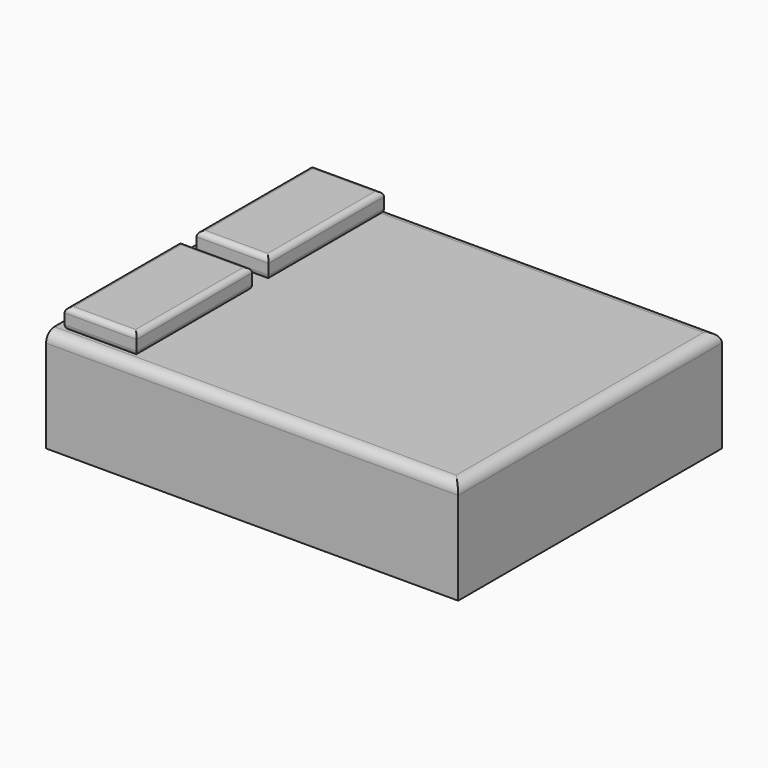
from build123d import *

# Parameters (mm, degrees)
F0_W     = 2000
F0_H     = 1600
F1_DEPTH = 500
F2_W     = 350
F2_H     = 700
F3_DEPTH = 100
F4_R     = 25
F5_R     = 50


with BuildPart() as f1:
    # F0 (on Top) → F1 (new body)
    with BuildSketch(Plane.XY):
        with Locations((1000, 800)):
            Rectangle(F0_W, F0_H)
    extrude(amount=F1_DEPTH)

    # F5
    f5_edges = [f1.edges().sort_by_distance(p)[0] for p in [
        (1000, 0, 500),
        (2000, 800, 500),
        (1000, 1600, 500),
    ]]
    fillet(f5_edges, radius=F5_R)


with BuildPart() as f3:
    # F2 (on face) → F3 (new body)
    with BuildSketch(Plane.XY.offset(500)):
        with Locations((225, 400)):
            Rectangle(F2_W, F2_H)
        with Locations((225, 1200)):
            Rectangle(F2_W, F2_H)
    extrude(amount=F3_DEPTH)

    # F4
    f4_edges = [f3.edges().sort_by_distance(p)[0] for p in [
        (225, 50, 600),
        (50, 400, 600),
        (225, 750, 600),
        (400, 400, 600),
        (225, 50, 500),
        (400, 400, 500),
        (50, 400, 500),
        (225, 750, 500),
        (50, 1200, 600),
        (225, 850, 600),
        (400, 1200, 600),
        (225, 1550, 600),
        (50, 1200, 500),
        (225, 850, 500),
        (225, 1550, 500),
        (400, 1200, 500),
    ]]
    fillet(f4_edges, radius=F4_R)


solid = Compound([f1.part, f3.part])
